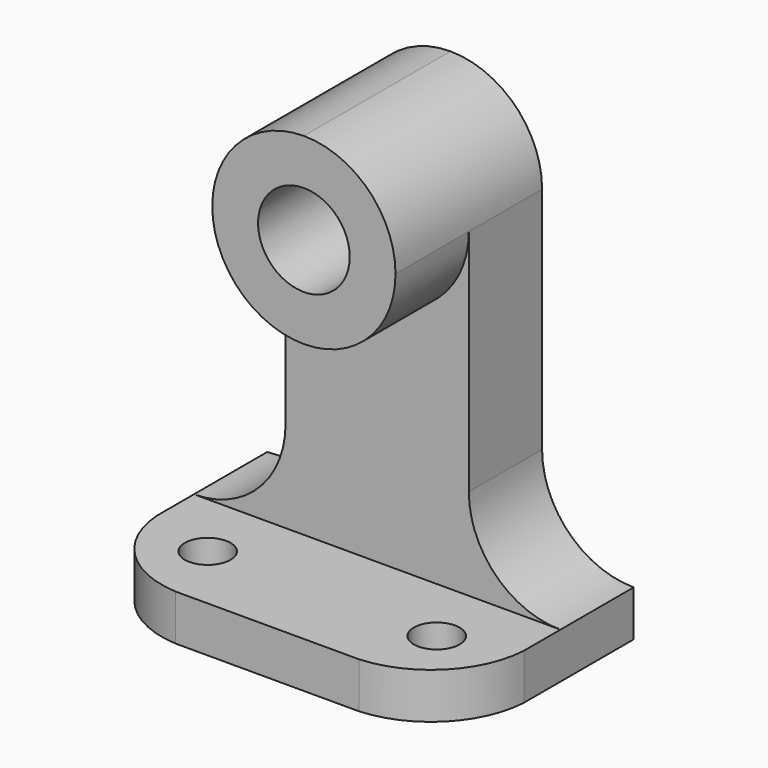
from build123d import *

# Parameters (mm, degrees)
F1_DEPTH  = 6.35
F2_W      = 25.4
F2_H      = 12.7
F3_DEPTH  = 57.15
F5_DEPTH  = 12.701
F6_DEPTH  = 12.7
F7_R      = 6.35
F8_DEPTH  = 25.401
F9_W      = 12.7
F9_H      = 12.7
F10_DEPTH = 25.4
F12_DEPTH = 12.701
F13_R     = 3.175
F14_DEPTH = 6.351


with BuildPart() as f1:
    # F0 (on Top) → F1 (new body)
    with BuildSketch(Plane.XY):
        with BuildLine():
            Line((0, 31.75), (-50.8, 31.75))
            Line((-50.8, 31.75), (-50.8, 12.7))
            ThreePointArc((-50.8, 12.7), (-46.87018, 3.92982), (-38.1, 0))
            Line((-38.1, 0), (-12.7, 0))
            ThreePointArc((-12.7, 0), (-3.92982, 3.92982), (0, 12.7))
            Line((0, 12.7), (0, 31.75))
        make_face()
    extrude(amount=F1_DEPTH)

    # F2 (on face) → F3 (join)
    with BuildSketch(Plane.XY.offset(6.35)):
        with Locations((-25.4, 25.4)):
            Rectangle(F2_W, F2_H)
    extrude(amount=F3_DEPTH)

    # F4 (on face) → F5 (cut, through all)
    with BuildSketch(Plane.XZ.offset(-19.05)):
        with BuildLine():
            ThreePointArc((-25.4, 63.5), (-16.419744, 59.780256), (-12.7, 50.8))
            Line((-12.7, 50.8), (-12.7, 63.5))
            Line((-12.7, 63.5), (-25.4, 63.5))
        make_face()
        with BuildLine():
            ThreePointArc((-38.1, 50.8), (-34.380256, 59.780256), (-25.4, 63.5))
            Line((-25.4, 63.5), (-38.1, 63.5))
            Line((-38.1, 63.5), (-38.1, 50.8))
        make_face()
    extrude(amount=-F5_DEPTH, mode=Mode.SUBTRACT)

    # F4 (on face) → F6 (join)
    with BuildSketch(Plane.XZ.offset(-19.05)):
        with BuildLine():
            ThreePointArc((-38.1, 50.8), (-25.4, 38.1), (-12.7, 50.8))
            ThreePointArc((-12.7, 50.8), (-16.419744, 59.780256), (-25.4, 63.5))
            ThreePointArc((-25.4, 63.5), (-34.380256, 59.780256), (-38.1, 50.8))
        make_face()
    extrude(amount=F6_DEPTH)

    # F7 (on face) → F8 (cut, through all)
    with BuildSketch(Plane.XZ.offset(-6.35)):
        with Locations((-25.4, 50.8)):
            Circle(F7_R)
    extrude(amount=-F8_DEPTH, mode=Mode.SUBTRACT)

    # F9 (on face) → F10 (join)
    with BuildSketch(Plane.XY.offset(6.35)):
        with Locations((-44.45, 25.4)):
            Rectangle(F9_W, F9_H)
        with Locations((-6.35, 25.4)):
            Rectangle(F9_W, F9_H)
    extrude(amount=F10_DEPTH)

    # F11 (on face) → F12 (cut, through all)
    with BuildSketch(Plane.XZ.offset(-19.05)):
        with BuildLine():
            Line((-38.1, 19.05), (-38.1, 31.75))
            Line((-38.1, 31.75), (-50.8, 31.75))
            Line((-50.8, 31.75), (-50.8, 6.35))
            ThreePointArc((-50.8, 6.35), (-41.819744, 10.069744), (-38.1, 19.05))
        make_face()
        with BuildLine():
            Line((0, 31.75), (-12.7, 31.75))
            Line((-12.7, 31.75), (-12.7, 19.05))
            ThreePointArc((-12.7, 19.05), (-8.980256, 10.069744), (0, 6.35))
            Line((0, 6.35), (0, 31.75))
        make_face()
    extrude(amount=-F12_DEPTH, mode=Mode.SUBTRACT)

    # F13 (on face) → F14 (cut, through all)
    with BuildSketch(Plane.XY.offset(6.35)):
        with Locations((-41.275, 9.525)):
            Circle(F13_R)
        with Locations((-9.525, 9.525)):
            Circle(F13_R)
    extrude(amount=-F14_DEPTH, mode=Mode.SUBTRACT)


solid = f1.part
